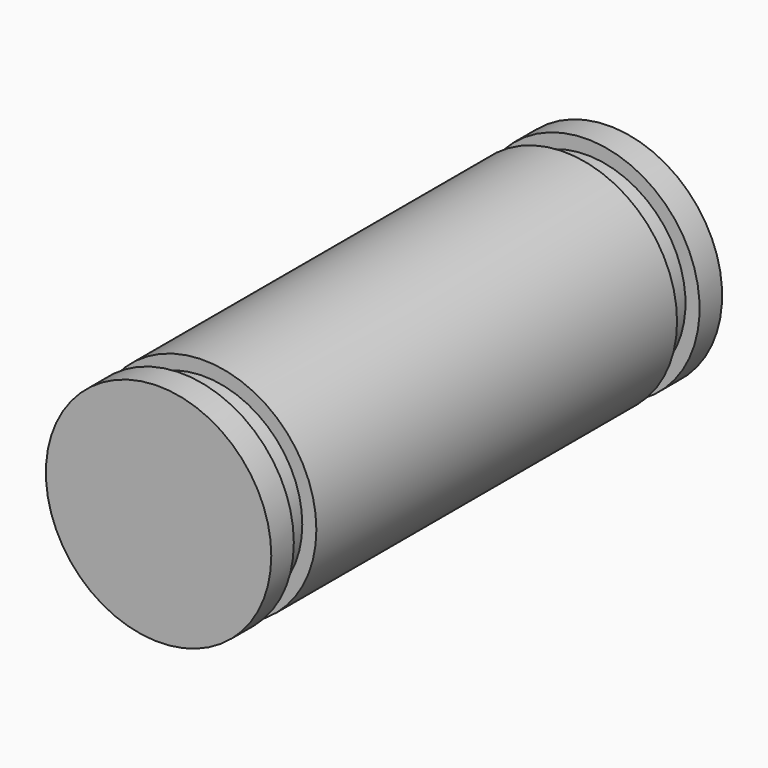
from build123d import *

# Parameters (mm, degrees)
F0_R     = 6.35
F1_DEPTH = 25.4
F2_R     = 5.55625
F3_DEPTH = 1.5875
F4_R     = 6.35
F5_DEPTH = 1.5875
F6_R     = 5.55625
F7_DEPTH = 1.5875
F8_R     = 6.35
F9_DEPTH = 1.5875


with BuildPart() as f1:
    # F0 (on Front) → F1 (new body)
    with BuildSketch(Plane.XZ):
        Circle(F0_R)
        Circle(F0_R)
    extrude(amount=F1_DEPTH)

    # F2 (on face) → F3 (join)
    with BuildSketch(Plane.XZ.offset(25.4)):
        Circle(F2_R)
    extrude(amount=F3_DEPTH)

    # F4 (on face) → F5 (join)
    with BuildSketch(Plane.XZ.offset(26.9875)):
        Circle(F4_R)
    extrude(amount=F5_DEPTH)

    # F6 (on face) → F7 (join)
    with BuildSketch(Plane(origin=(0, 0, 0), x_dir=(-1, 0, 0), z_dir=(0, 1, 0))):
        Circle(F6_R)
    extrude(amount=F7_DEPTH)

    # F8 (on face) → F9 (join)
    with BuildSketch(Plane(origin=(0, 1.5875, 0), x_dir=(-1, 0, 0), z_dir=(0, 1, 0))):
        Circle(F8_R)
    extrude(amount=F9_DEPTH)


solid = f1.part
